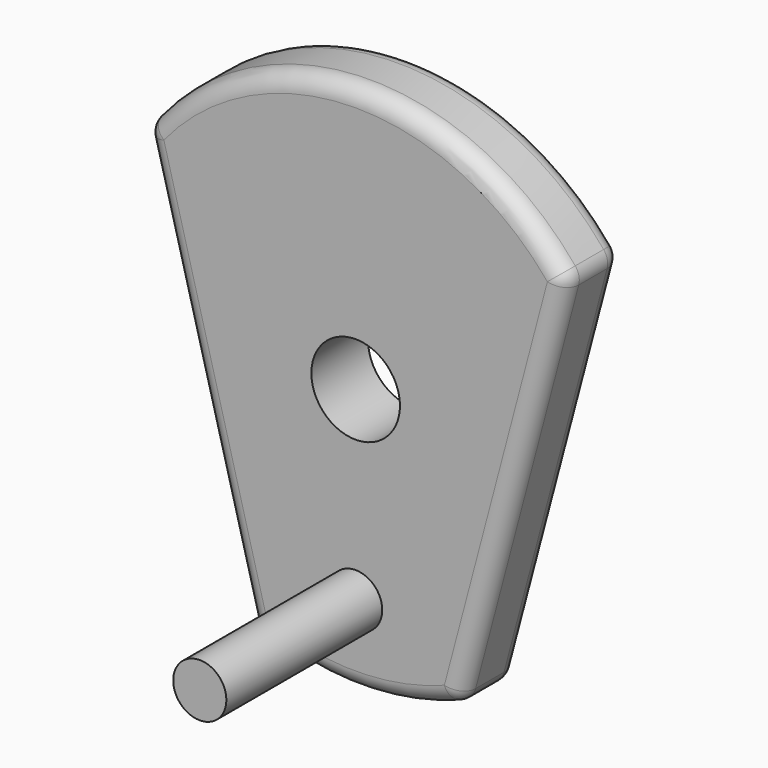
from build123d import *

# Parameters (mm, degrees)
F0_R     = 1.5
F1_DEPTH = 15
F2_DEPTH = 4
F3_R     = 2.5
F4_DEPTH = 25
F5_R     = 1


with BuildPart() as f1:
    # F0 (on Front) → F1 (new body)
    with BuildSketch(Plane.XZ):
        with Locations((0, -10.47795)):
            Circle(F0_R)
    extrude(amount=F1_DEPTH)

    # F0 (on Front) → F2 (join)
    with BuildSketch(Plane.XZ):
        with BuildLine():
            Line((-11.9213, 9.103989), (-5.846707, -13.813617))
            ThreePointArc((-5.846707, -13.813617), (0, -15), (5.846707, -13.813617))
            Line((5.846707, -13.813617), (11.9213, 9.103989))
            ThreePointArc((11.9213, 9.103989), (0, 15), (-11.9213, 9.103989))
        make_face()
        with Locations((0, -10.47795)):
            Circle(F0_R, mode=Mode.SUBTRACT)
    extrude(amount=F2_DEPTH)

    # F3 (on face) → F4 (cut)
    with BuildSketch(Plane(origin=(0, 0, 0), x_dir=(-1, 0, 0), z_dir=(0, 1, 0))):
        Circle(F3_R)
    extrude(amount=-F4_DEPTH, mode=Mode.SUBTRACT)

    # F5
    f5_edges = [f1.edges().sort_by_distance(p)[0] for p in [
        (0, -4, 15),
        (11.9213, -2, 9.103989),
        (-11.9213, -2, 9.103989),
        (0, 0, 15),
        (5.846707, -2, -13.813617),
        (0, -4, -15),
        (0, 0, -15),
        (-5.846707, -2, -13.813617),
        (-8.884003, 0, -2.354814),
        (-8.884003, -4, -2.354814),
        (8.884003, -4, -2.354814),
        (8.884003, 0, -2.354814),
    ]]
    fillet(f5_edges, radius=F5_R)


solid = f1.part
